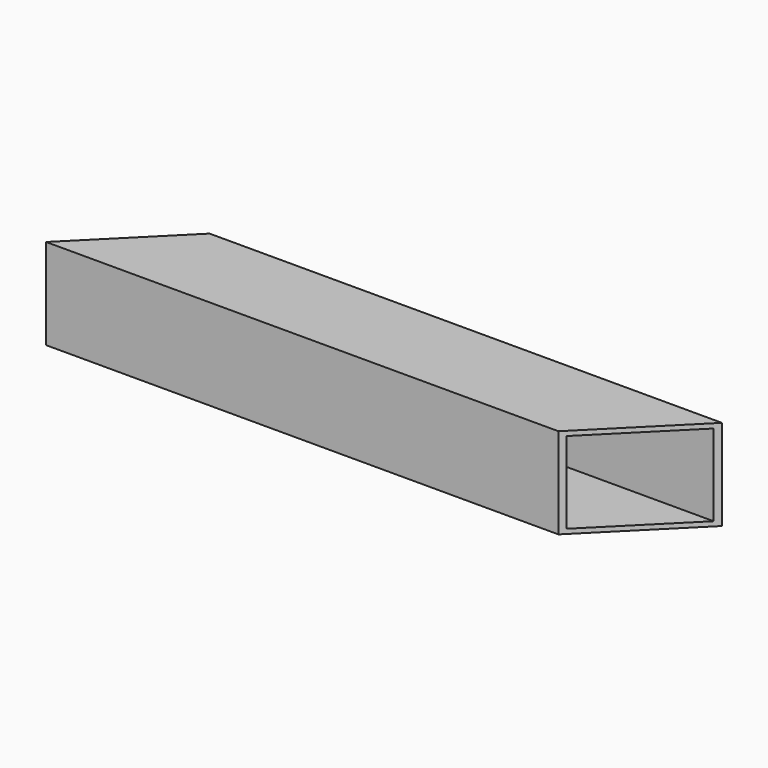
from build123d import *

# Parameters (mm, degrees)
F0_W     = 232
F0_H     = 50
F1_DEPTH = 50
F2_T     = -2.54


with BuildPart() as f1:
    # F0 (on Top) → F1 (new body)
    with BuildSketch(Plane.XY):
        Polygon((116, 25), (116, -25), (166, 25), align=None)
        Rectangle(F0_W, F0_H)
        Polygon((-166, -25), (-116, -25), (-116, 25), align=None)
    extrude(amount=F1_DEPTH)

    # F2
    f2_openings = [f1.faces().sort_by_distance(p)[0] for p in [
        (141, 0, 25),
        (-141, 0, 25),
    ]]
    offset(amount=F2_T, openings=f2_openings)


solid = f1.part
